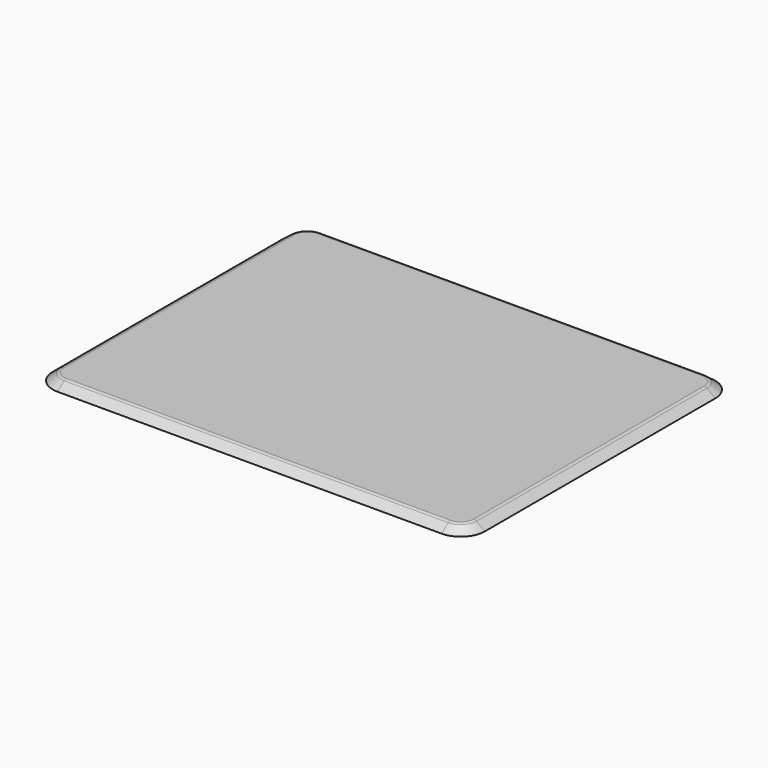
from build123d import *

# Parameters (mm, degrees)
F0_W     = 1700
F0_H     = 1300
F1_DEPTH = 30
F2_R     = 50


with BuildPart() as f1:
    # F0 (on Top) → F1 (new body)
    with BuildSketch(Plane.XY):
        Rectangle(F0_W, F0_H)
    extrude(amount=F1_DEPTH)

    # F2
    f2_edges = [f1.edges().sort_by_distance(p)[0] for p in [
        (-850, -650, 15),
        (-850, 650, 15),
        (850, -650, 15),
        (850, 650, 15),
    ]]
    fillet(f2_edges, radius=F2_R)

    # F6: sweep along a path in F5
    with BuildLine(Plane.XY.offset(30)) as f6_path:
        Line((800, 650), (-800, 650))
        ThreePointArc((-800, 650), (-835.3553390593, 635.3553390593), (-850, 600))
        Line((-850, 600), (-850, -600))
        ThreePointArc((-850, -600), (-835.3553390593, -635.3553390593), (-800, -650))
        Line((-800, -650), (800, -650))
        ThreePointArc((800, -650), (835.3553390593, -635.3553390593), (850, -600))
        Line((850, -600), (850, 600))
        ThreePointArc((850, 600), (835.3553390593, 635.3553390593), (800, 650))
    # F4 (on offset) → F6 (sweep)
    with BuildSketch(Plane.XZ.offset(600)):
        with BuildLine():
            Line((853.3333333333, 30), (850, 30))
            Line((850, 30), (850, 0))
            Line((850, 0), (900, 0))
            Line((900, 0), (865.3333333333, 26))
            ThreePointArc((865.3333333333, 26), (859.6578886537, 28.973665961), (853.3333333333, 30))
        make_face()
    sweep(path=f6_path.line)


solid = f1.part
